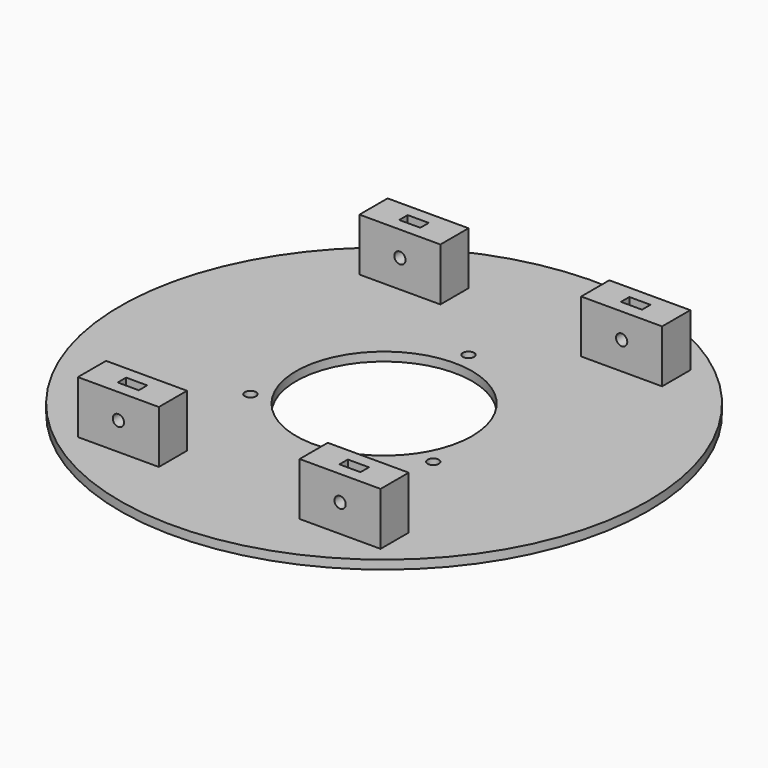
from build123d import *

# Parameters (mm, degrees)
SKETCH_R        = 75
SKETCH_R_2      = 25
SKETCH_R_3      = 1.6
PAD_DEPTH       = 2.5
SKETCH001_W     = 23
SKETCH001_H     = 10
PAD001_DEPTH    = 15
SKETCH002_R     = 1.6
POCKET_DEPTH    = 130.001
SKETCH003_W     = 6
SKETCH003_H     = 3
POCKET001_DEPTH = 10


with BuildPart() as part:
    # Sketch → Pad (new body)
    with BuildSketch(Plane.XY):
        Circle(SKETCH_R)
        Circle(SKETCH_R_2, mode=Mode.SUBTRACT)
        with Locations((0, 30)):
            Circle(SKETCH_R_3, mode=Mode.SUBTRACT)
        with Locations((-25.980762, -15)):
            Circle(SKETCH_R_3, mode=Mode.SUBTRACT)
        with Locations((25.980762, -15)):
            Circle(SKETCH_R_3, mode=Mode.SUBTRACT)
    extrude(amount=PAD_DEPTH)

    # Sketch001 → Pad001 (new body)
    with BuildSketch(Plane.XY.offset(2.5)):
        with Locations((-31.5, 50)):
            Rectangle(SKETCH001_W, SKETCH001_H)
        with Locations((31.5, 50)):
            Rectangle(SKETCH001_W, SKETCH001_H)
        with Locations((-31.5, -50)):
            Rectangle(SKETCH001_W, SKETCH001_H)
        with Locations((31.5, -50)):
            Rectangle(SKETCH001_W, SKETCH001_H)
    extrude(amount=PAD001_DEPTH)

    # Sketch002 → Pocket (cut, through all)
    with BuildSketch(Plane.XZ.offset(55)):
        with Locations((31.5, 10.4)):
            Circle(SKETCH002_R)
        with Locations((-31.5, 10.4)):
            Circle(SKETCH002_R)
    extrude(amount=-POCKET_DEPTH, mode=Mode.SUBTRACT)

    # Sketch003 → Pocket001 (cut)
    with BuildSketch(Plane.XY.offset(17.5)):
        with Locations((31.5, -50)):
            Rectangle(SKETCH003_W, SKETCH003_H)
        with Locations((-31.5, -50)):
            Rectangle(SKETCH003_W, SKETCH003_H)
        with Locations((31.5, 50)):
            Rectangle(SKETCH003_W, SKETCH003_H)
        with Locations((-31.5, 50)):
            Rectangle(SKETCH003_W, SKETCH003_H)
    extrude(amount=-POCKET001_DEPTH, mode=Mode.SUBTRACT)


solid = part.part
